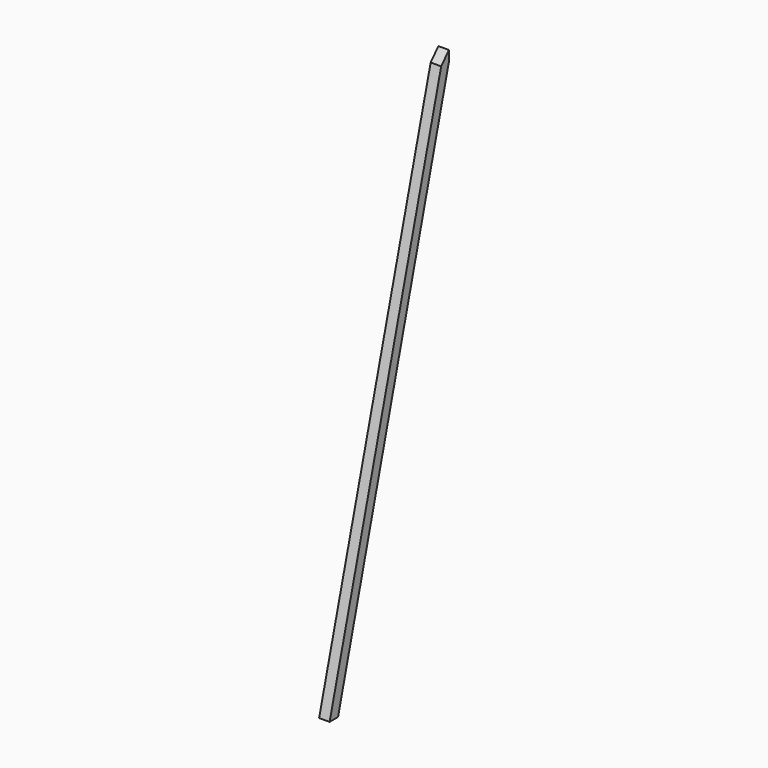
from build123d import *

# Parameters (mm, degrees)
F0_W     = 10
F0_H     = 141.806
F1_DEPTH = 495
F3_DEPTH = 10
F5_DEPTH = 10


with BuildPart() as f1:
    # F0 (on Top) → F1 (new body)
    with BuildSketch(Plane.XY):
        with Locations((-37.828005, 12.564924)):
            Rectangle(F0_W, F0_H)
    extrude(amount=F1_DEPTH)

    # F2 (on face) → F3 (cut)
    with BuildSketch(Plane(origin=(-42.828005, 0, 0), x_dir=(0, -1, 0), z_dir=(-1, 0, 0))):
        Polygon((-83.467924, 0), (48.338076, 0), (-83.467924, 495), align=None)
        Polygon((-74.296774, 495), (58.338076, 0), (58.338076, 495), align=None)
    extrude(amount=-F3_DEPTH, mode=Mode.SUBTRACT)

    # F4 (on face) → F5 (join)
    with BuildSketch(Plane(origin=(-42.828005, 0, 0), x_dir=(0, -1, 0), z_dir=(-1, 0, 0))):
        Polygon((-83.467924, 505), (-83.467924, 495), (-74.296774, 495), align=None)
    extrude(amount=-F5_DEPTH)


solid = f1.part
